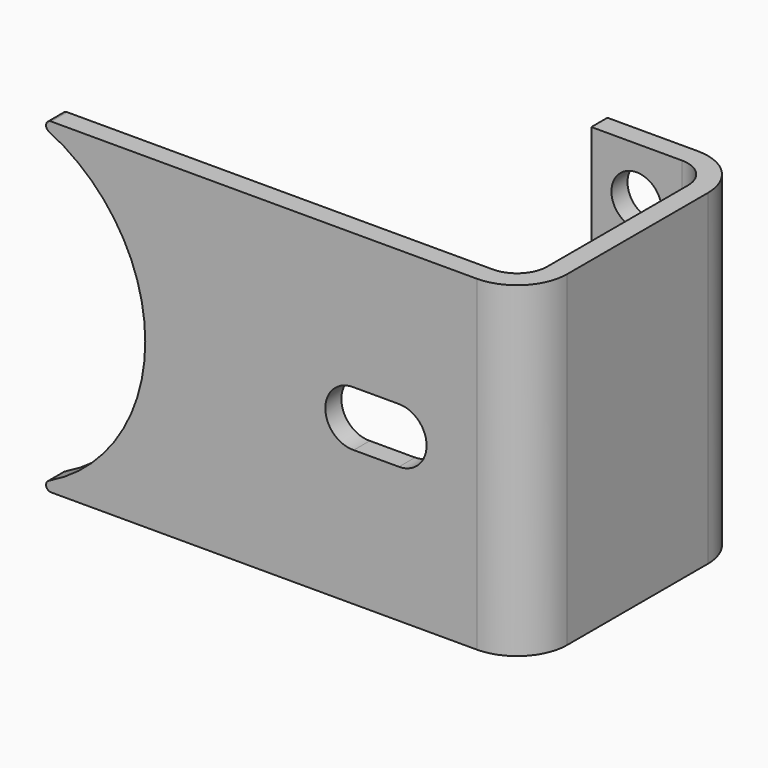
from build123d import *

# Parameters (mm, degrees)
F1_DEPTH = 65
F2_R     = 5
F3_DEPTH = 25
F5_DEPTH = 25
F6_R     = 1
F8_DEPTH = 15


with BuildPart() as f1:
    # F0 (on Top) → F1 (new body)
    with BuildSketch(Plane.XY):
        with BuildLine():
            Line((30.1594209448, 52.9782638401), (12.1594209448, 52.9782638401))
            Line((12.1594209448, 52.9782638401), (12.1594209448, 48.9782638401))
            Line((12.1594209448, 48.9782638401), (30.1594209448, 48.9782638401))
            ThreePointArc((30.1594209448, 48.9782638401), (34.4020616319, 47.2209045272), (36.1594209448, 42.9782638401))
            Line((36.1594209448, 42.9782638401), (36.1594209448, 7.9782638401))
            ThreePointArc((36.1594209448, 7.9782638401), (34.4020616319, 3.735623153), (30.1594209448, 1.9782638401))
            Line((30.1594209448, 1.9782638401), (-59.8505790552, 1.9782638401))
            Line((-59.8505790552, 1.9782638401), (-59.8505790552, -2.0217361599))
            Line((-59.8505790552, -2.0217361599), (30.1594209448, -2.0217361599))
            ThreePointArc((30.1594209448, -2.0217361599), (37.2304887566, 0.9071960282), (40.1594209448, 7.9782638401))
            Line((40.1594209448, 7.9782638401), (40.1594209448, 42.9782638401))
            ThreePointArc((40.1594209448, 42.9782638401), (37.2304887566, 50.0493316519), (30.1594209448, 52.9782638401))
        make_face()
    extrude(amount=F1_DEPTH)

    # F2 (on face) → F3 (cut)
    with BuildSketch(Plane(origin=(0, 52.9782638401, 0), x_dir=(-1, 0, 0), z_dir=(0, 1, 0))):
        with Locations((-21.1594209448, 10)):
            Circle(F2_R)
        with Locations((-21.1594209448, 55)):
            Circle(F2_R)
    extrude(amount=-F3_DEPTH, mode=Mode.SUBTRACT)

    # F4 (on face) → F5 (cut)
    with BuildSketch(Plane.XZ.offset(2.0217361599)):
        with BuildLine():
            Line((-59.8505790552, 65), (-59.8505790552, 0))
            ThreePointArc((-59.8505790552, 0), (-35.838071233, 32.5), (-59.8505790552, 65))
        make_face()
    extrude(amount=-F5_DEPTH, mode=Mode.SUBTRACT)

    # F6
    f6_edges = [f1.edges().sort_by_distance(p)[0] for p in [
        (-59.850579, -0.021736, 65),
        (-59.850579, -0.021736, 0),
    ]]
    fillet(f6_edges, radius=F6_R)

    # F7 (on face) → F8 (cut)
    with BuildSketch(Plane.XZ.offset(2.0217361599)):
        with BuildLine():
            ThreePointArc((14.6594209448, 27), (20.1594209448, 32.5), (14.6594209448, 38))
            Line((14.6594209448, 38), (5.6594209448, 38))
            ThreePointArc((5.6594209448, 38), (0, 32.5), (5.6594209448, 27))
            Line((5.6594209448, 27), (10.1594209448, 27))
            Line((10.1594209448, 27), (14.6594209448, 27))
        make_face()
    extrude(amount=-F8_DEPTH, mode=Mode.SUBTRACT)


solid = f1.part
